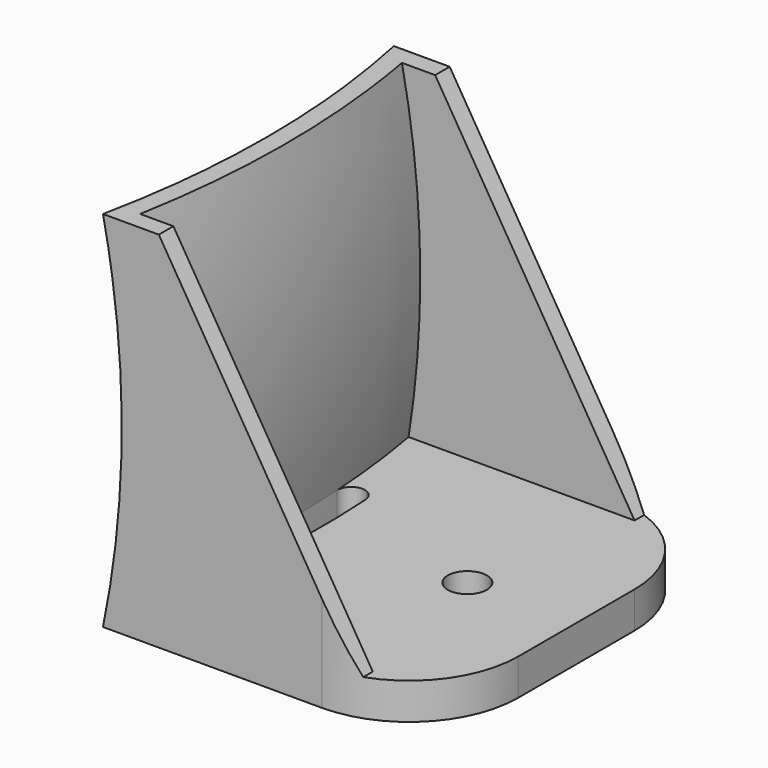
from build123d import *

# Parameters (mm, degrees)
REVOLUTION_ANGLE     = -45
SKETCH001_W          = 200
SKETCH001_H          = 100
SKETCH001_W_2        = 40
SKETCH001_H_2        = 40
POCKET_DEPTH         = 146.825584
SKETCH002_R          = 2.15
POCKET001_DEPTH      = 20.001
POCKET001_DEPTH_BACK = -20.001
GROOVE_ANGLE         = -60
POCKET002_DEPTH      = 20.001
POCKET002_DEPTH_BACK = -20.001
POCKET003_DEPTH      = 4.001


with BuildPart() as part:
    # Sketch → Revolution (revolve, symmetric)
    with BuildSketch(Plane.XZ) as revolution_sk:
        with BuildLine():
            ThreePointArc((96.824584, -25), (100, 0), (96.824584, 25))
            Line((96.824584, 25), (146.824584, 25))
            Line((146.824584, 25), (146.824584, -25))
            Line((146.824584, -25), (96.824584, -25))
        make_face()
    revolve(axis=Axis((0, 0, 0), (0, 0, 1)), revolution_arc=REVOLUTION_ANGLE / 2)
    revolve(revolution_sk.sketch, axis=Axis((0, 0, 0), (0, 0, -1)), revolution_arc=REVOLUTION_ANGLE / 2)

    # Sketch001 → Pocket (cut, through all)
    with BuildSketch(Plane.YZ):
        Rectangle(SKETCH001_W, SKETCH001_H)
        Rectangle(SKETCH001_W_2, SKETCH001_H_2, mode=Mode.SUBTRACT)
    extrude(amount=POCKET_DEPTH, mode=Mode.SUBTRACT)

    # Sketch002 → Pocket001 (cut, two sides)
    with BuildSketch(Plane.XY) as pocket001_sk:
        with Locations((120, 0)):
            Circle(SKETCH002_R)
        with BuildLine():
            Line((120, 20), (120, 30))
            Line((120, 30), (150, 30))
            Line((150, 30), (150, -30))
            Line((150, -30), (120, -30))
            Line((120, -30), (120, -20))
            ThreePointArc((120, -20), (128.485281, -16.485281), (132, -8))
            Line((132, 8), (132, -8))
            ThreePointArc((132, 8), (128.485281, 16.485281), (120, 20))
        make_face()
    extrude(amount=-POCKET001_DEPTH, mode=Mode.SUBTRACT)
    extrude(pocket001_sk.sketch, amount=-POCKET001_DEPTH_BACK, mode=Mode.SUBTRACT)

    # Sketch003 → Groove (revolve, cut)
    with BuildSketch(Plane.XY.offset(-16)):
        with BuildLine():
            Line((159.136485, -18), (159.136485, 18))
            Line((159.136485, 18), (99.136485, 18))
            ThreePointArc((99.136485, -18), (100.737282, 0), (99.136485, 18))
            Line((99.136485, -18), (159.136485, -18))
        make_face()
    revolve(axis=Axis((0, 0, 0), (0, 1, 0)), revolution_arc=GROOVE_ANGLE, mode=Mode.SUBTRACT)

    # Sketch004 → Pocket002 (cut, two sides)
    with BuildSketch(Plane.XZ) as pocket002_sk:
        Polygon((102, 20.1), (124, -16), (154, -16), (154, 30.1), (102, 30.1), align=None)
    extrude(amount=-POCKET002_DEPTH, mode=Mode.SUBTRACT)
    extrude(pocket002_sk.sketch, amount=-POCKET002_DEPTH_BACK, mode=Mode.SUBTRACT)

    # Sketch005 → Pocket003 (cut, through all)
    with BuildSketch(Plane.XY.offset(-16)):
        with BuildLine():
            ThreePointArc((100.535935, -6.405797), (100.737282, 0), (100.535935, 6.405797))
            ThreePointArc((103.530013, 6.594203), (101.938771, 7.997039), (100.535935, 6.405797))
            ThreePointArc((103.530013, -6.594203), (103.737282, 0), (103.530013, 6.594203))
            ThreePointArc((100.535935, -6.405797), (101.938771, -7.997039), (103.530013, -6.594203))
        make_face()
    extrude(amount=-POCKET003_DEPTH, mode=Mode.SUBTRACT)


solid = part.part
